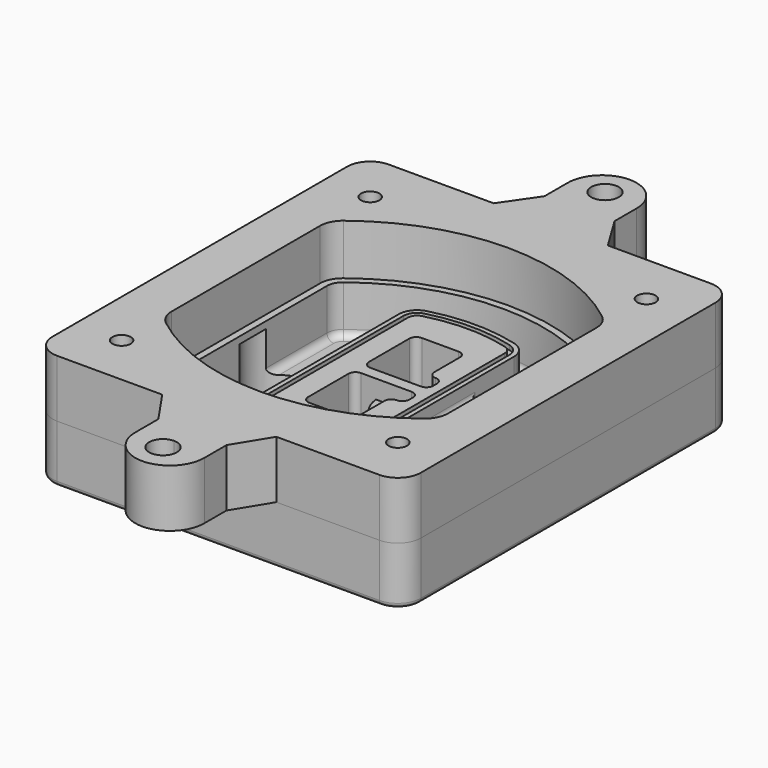
from build123d import *

# Parameters (mm, degrees)
F0_R      = 4
F1_DEPTH  = 25
F2_DEPTH  = 3
F3_DEPTH  = 18
F5_DEPTH  = 21
F6_DEPTH  = 2
F8_DEPTH  = 20
F9_DEPTH  = 16
F10_DEPTH = 25
F7_R      = 6
F7_R_2    = 4
F11_DEPTH = 6
F13_DEPTH = 9
F14_R     = 3
F15_R     = 2
F16_R     = 4
F17_DEPTH = 25


with BuildPart() as f1:
    # F0 (on Top) → F1 (new body)
    with BuildSketch(Plane.XY):
        with BuildLine():
            ThreePointArc((-80, -80), (-77.0710678119, -87.0710678119), (-70, -90))
            Line((-70, -90), (70, -90))
            ThreePointArc((70, -90), (77.0710678119, -87.0710678119), (80, -80))
            Line((80, -80), (80, 80))
            ThreePointArc((80, 80), (77.0710678119, 87.0710678119), (70, 90))
            Line((70, 90), (-70, 90))
            ThreePointArc((-70, 90), (-77.0710678119, 87.0710678119), (-80, 80))
            Line((-80, 80), (-80, -80))
        make_face()
        with Locations((-60, -67.5)):
            Circle(F0_R, mode=Mode.SUBTRACT)
        with Locations((60, -67.5)):
            Circle(F0_R, mode=Mode.SUBTRACT)
        with Locations((-60, 67.5)):
            Circle(F0_R, mode=Mode.SUBTRACT)
        with BuildLine():
            ThreePointArc((-64, 40.2934422872), (-62.5820384798, 46.4328484224), (-58.6153846154, 51.3286200352))
            ThreePointArc((-58.6153846154, 51.3286200352), (0, 71.5), (58.6153846154, 51.3286200352))
            ThreePointArc((58.6153846154, 51.3286200352), (62.5820384798, 46.4328484224), (64, 40.2934422872))
            Line((64, 40.2934422872), (64, -40.2934422872))
            ThreePointArc((64, -40.2934422872), (62.5820384798, -46.4328484224), (58.6153846154, -51.3286200352))
            ThreePointArc((58.6153846154, -51.3286200352), (0, -71.5), (-58.6153846154, -51.3286200352))
            ThreePointArc((-58.6153846154, -51.3286200352), (-62.5820384798, -46.4328484224), (-64, -40.2934422872))
            Line((-64, -40.2934422872), (-64, 40.2934422872))
        make_face(mode=Mode.SUBTRACT)
        with Locations((60, 67.5)):
            Circle(F0_R, mode=Mode.SUBTRACT)
        with BuildLine():
            ThreePointArc((58.6153846154, 51.3286200352), (0, 71.5), (-58.6153846154, 51.3286200352))
            ThreePointArc((-58.6153846154, 51.3286200352), (-62.5820384798, 46.4328484224), (-64, 40.2934422872))
            Line((-64, 40.2934422872), (-64, -40.2934422872))
            ThreePointArc((-64, -40.2934422872), (-62.5820384798, -46.4328484224), (-58.6153846154, -51.3286200352))
            ThreePointArc((-58.6153846154, -51.3286200352), (0, -71.5), (58.6153846154, -51.3286200352))
            ThreePointArc((58.6153846154, -51.3286200352), (62.5820384798, -46.4328484224), (64, -40.2934422872))
            Line((64, -40.2934422872), (64, 40.2934422872))
            ThreePointArc((64, 40.2934422872), (62.5820384798, 46.4328484224), (58.6153846154, 51.3286200352))
        make_face()
        with BuildLine():
            Line((-60, -40.2934422872), (-60, 40.2934422872))
            ThreePointArc((-60, 40.2934422872), (-58.9871703427, 44.6787323838), (-56.1538461538, 48.1757121072))
            ThreePointArc((-56.1538461538, 48.1757121072), (0, 67.5), (56.1538461538, 48.1757121072))
            ThreePointArc((56.1538461538, 48.1757121072), (58.9871703427, 44.6787323838), (60, 40.2934422872))
            Line((60, 40.2934422872), (60, -40.2934422872))
            ThreePointArc((60, -40.2934422872), (58.9871703427, -44.6787323838), (56.1538461538, -48.1757121072))
            ThreePointArc((56.1538461538, -48.1757121072), (0, -67.5), (-56.1538461538, -48.1757121072))
            ThreePointArc((-56.1538461538, -48.1757121072), (-58.9871703427, -44.6787323838), (-60, -40.2934422872))
        make_face(mode=Mode.SUBTRACT)
        with BuildLine():
            ThreePointArc((-56.1538461538, 48.1757121072), (-58.9871703427, 44.6787323838), (-60, 40.2934422872))
            Line((-60, 40.2934422872), (-60, -40.2934422872))
            ThreePointArc((-60, -40.2934422872), (-58.9871703427, -44.6787323838), (-56.1538461538, -48.1757121072))
            ThreePointArc((-56.1538461538, -48.1757121072), (0, -67.5), (56.1538461538, -48.1757121072))
            ThreePointArc((56.1538461538, -48.1757121072), (58.9871703427, -44.6787323838), (60, -40.2934422872))
            Line((60, -40.2934422872), (60, 40.2934422872))
            ThreePointArc((60, 40.2934422872), (58.9871703427, 44.6787323838), (56.1538461538, 48.1757121072))
            ThreePointArc((56.1538461538, 48.1757121072), (0, 67.5), (-56.1538461538, 48.1757121072))
        make_face()
        with BuildLine():
            ThreePointArc((54.3076923077, 45.8110311612), (56.2910192399, 43.3631453548), (57, 40.2934422872))
            Line((57, 40.2934422872), (57, -40.2934422872))
            ThreePointArc((57, -40.2934422872), (56.2910192399, -43.3631453548), (54.3076923077, -45.8110311612))
            ThreePointArc((54.3076923077, -45.8110311612), (0, -64.5), (-54.3076923077, -45.8110311612))
            ThreePointArc((-54.3076923077, -45.8110311612), (-56.2910192399, -43.3631453548), (-57, -40.2934422872))
            Line((-57, -40.2934422872), (-57, 40.2934422872))
            ThreePointArc((-57, 40.2934422872), (-56.2910192399, 43.3631453548), (-54.3076923077, 45.8110311612))
            ThreePointArc((-54.3076923077, 45.8110311612), (0, 64.5), (54.3076923077, 45.8110311612))
        make_face(mode=Mode.SUBTRACT)
        with BuildLine():
            Line((57, -40.2934422872), (57, 40.2934422872))
            ThreePointArc((57, 40.2934422872), (56.2910192399, 43.3631453548), (54.3076923077, 45.8110311612))
            ThreePointArc((54.3076923077, 45.8110311612), (0, 64.5), (-54.3076923077, 45.8110311612))
            ThreePointArc((-54.3076923077, 45.8110311612), (-56.2910192399, 43.3631453548), (-57, 40.2934422872))
            Line((-57, 40.2934422872), (-57, -40.2934422872))
            ThreePointArc((-57, -40.2934422872), (-56.2910192399, -43.3631453548), (-54.3076923077, -45.8110311612))
            ThreePointArc((-54.3076923077, -45.8110311612), (0, -64.5), (54.3076923077, -45.8110311612))
            ThreePointArc((54.3076923077, -45.8110311612), (56.2910192399, -43.3631453548), (57, -40.2934422872))
        make_face()
    extrude(amount=-F1_DEPTH)

    # F0 (on Top) → F2 (join)
    with BuildSketch(Plane.XY):
        with BuildLine():
            ThreePointArc((-56.1538461538, 48.1757121072), (-58.9871703427, 44.6787323838), (-60, 40.2934422872))
            Line((-60, 40.2934422872), (-60, -40.2934422872))
            ThreePointArc((-60, -40.2934422872), (-58.9871703427, -44.6787323838), (-56.1538461538, -48.1757121072))
            ThreePointArc((-56.1538461538, -48.1757121072), (0, -67.5), (56.1538461538, -48.1757121072))
            ThreePointArc((56.1538461538, -48.1757121072), (58.9871703427, -44.6787323838), (60, -40.2934422872))
            Line((60, -40.2934422872), (60, 40.2934422872))
            ThreePointArc((60, 40.2934422872), (58.9871703427, 44.6787323838), (56.1538461538, 48.1757121072))
            ThreePointArc((56.1538461538, 48.1757121072), (0, 67.5), (-56.1538461538, 48.1757121072))
        make_face()
        with BuildLine():
            ThreePointArc((54.3076923077, 45.8110311612), (56.2910192399, 43.3631453548), (57, 40.2934422872))
            Line((57, 40.2934422872), (57, -40.2934422872))
            ThreePointArc((57, -40.2934422872), (56.2910192399, -43.3631453548), (54.3076923077, -45.8110311612))
            ThreePointArc((54.3076923077, -45.8110311612), (0, -64.5), (-54.3076923077, -45.8110311612))
            ThreePointArc((-54.3076923077, -45.8110311612), (-56.2910192399, -43.3631453548), (-57, -40.2934422872))
            Line((-57, -40.2934422872), (-57, 40.2934422872))
            ThreePointArc((-57, 40.2934422872), (-56.2910192399, 43.3631453548), (-54.3076923077, 45.8110311612))
            ThreePointArc((-54.3076923077, 45.8110311612), (0, 64.5), (54.3076923077, 45.8110311612))
        make_face(mode=Mode.SUBTRACT)
    extrude(amount=F2_DEPTH)

    # F0 (on Top) → F3 (cut)
    with BuildSketch(Plane.XY):
        with BuildLine():
            Line((57, -40.2934422872), (57, 40.2934422872))
            ThreePointArc((57, 40.2934422872), (56.2910192399, 43.3631453548), (54.3076923077, 45.8110311612))
            ThreePointArc((54.3076923077, 45.8110311612), (0, 64.5), (-54.3076923077, 45.8110311612))
            ThreePointArc((-54.3076923077, 45.8110311612), (-56.2910192399, 43.3631453548), (-57, 40.2934422872))
            Line((-57, 40.2934422872), (-57, -40.2934422872))
            ThreePointArc((-57, -40.2934422872), (-56.2910192399, -43.3631453548), (-54.3076923077, -45.8110311612))
            ThreePointArc((-54.3076923077, -45.8110311612), (0, -64.5), (54.3076923077, -45.8110311612))
            ThreePointArc((54.3076923077, -45.8110311612), (56.2910192399, -43.3631453548), (57, -40.2934422872))
        make_face()
    extrude(amount=-F3_DEPTH, mode=Mode.SUBTRACT)

    # F4 (on face) → F5 (join, through all)
    with BuildSketch(Plane.XY.offset(3)):
        with BuildLine():
            ThreePointArc((-25, -39.2465276821), (-23.3511545998, -44.1109737193), (-19.0842911877, -46.9702398883))
            ThreePointArc((-19.0842911877, -46.9702398883), (0, -49.5), (19.0842911877, -46.9702398883))
            ThreePointArc((19.0842911877, -46.9702398883), (23.3511545998, -44.1109737193), (25, -39.2465276821))
            Line((25, -39.2465276821), (25, 39.2465276821))
            ThreePointArc((25, 39.2465276821), (23.3511545998, 44.1109737193), (19.0842911877, 46.9702398883))
            ThreePointArc((19.0842911877, 46.9702398883), (0, 49.5), (-19.0842911877, 46.9702398883))
            ThreePointArc((-19.0842911877, 46.9702398883), (-23.3511545998, 44.1109737193), (-25, 39.2465276821))
            Line((-25, 39.2465276821), (-25, -39.2465276821))
        make_face()
        with BuildLine():
            ThreePointArc((18.5632183908, 45.0393118368), (21.7633659499, 42.89486221), (23, 39.2465276821))
            Line((23, 39.2465276821), (23, -39.2465276821))
            ThreePointArc((23, -39.2465276821), (21.7633659499, -42.89486221), (18.5632183908, -45.0393118368))
            ThreePointArc((18.5632183908, -45.0393118368), (0, -47.5), (-18.5632183908, -45.0393118368))
            ThreePointArc((-18.5632183908, -45.0393118368), (-21.7633659499, -42.89486221), (-23, -39.2465276821))
            Line((-23, -39.2465276821), (-23, 39.2465276821))
            ThreePointArc((-23, 39.2465276821), (-21.7633659499, 42.89486221), (-18.5632183908, 45.0393118368))
            ThreePointArc((-18.5632183908, 45.0393118368), (0, 47.5), (18.5632183908, 45.0393118368))
        make_face(mode=Mode.SUBTRACT)
        with BuildLine():
            Line((23, -39.2465276821), (23, 39.2465276821))
            ThreePointArc((23, 39.2465276821), (21.7633659499, 42.89486221), (18.5632183908, 45.0393118368))
            ThreePointArc((18.5632183908, 45.0393118368), (0, 47.5), (-18.5632183908, 45.0393118368))
            ThreePointArc((-18.5632183908, 45.0393118368), (-21.7633659499, 42.89486221), (-23, 39.2465276821))
            Line((-23, 39.2465276821), (-23, -39.2465276821))
            ThreePointArc((-23, -39.2465276821), (-21.7633659499, -42.89486221), (-18.5632183908, -45.0393118368))
            ThreePointArc((-18.5632183908, -45.0393118368), (0, -47.5), (18.5632183908, -45.0393118368))
            ThreePointArc((18.5632183908, -45.0393118368), (21.7633659499, -42.89486221), (23, -39.2465276821))
        make_face()
        with BuildLine():
            ThreePointArc((18.0421455939, 43.1083837852), (20.1755772999, 41.6787507007), (21, 39.2465276821))
            Line((21, 39.2465276821), (21, -39.2465276821))
            ThreePointArc((21, -39.2465276821), (20.1755772999, -41.6787507007), (18.0421455939, -43.1083837852))
            ThreePointArc((18.0421455939, -43.1083837852), (0, -45.5), (-18.0421455939, -43.1083837852))
            ThreePointArc((-18.0421455939, -43.1083837852), (-20.1755772999, -41.6787507007), (-21, -39.2465276821))
            Line((-21, -39.2465276821), (-21, 39.2465276821))
            ThreePointArc((-21, 39.2465276821), (-20.1755772999, 41.6787507007), (-18.0421455939, 43.1083837852))
            ThreePointArc((-18.0421455939, 43.1083837852), (0, 45.5), (18.0421455939, 43.1083837852))
        make_face(mode=Mode.SUBTRACT)
        with BuildLine():
            Line((21, -39.2465276821), (21, 39.2465276821))
            ThreePointArc((21, 39.2465276821), (20.1755772999, 41.6787507007), (18.0421455939, 43.1083837852))
            ThreePointArc((18.0421455939, 43.1083837852), (0, 45.5), (-18.0421455939, 43.1083837852))
            ThreePointArc((-18.0421455939, 43.1083837852), (-20.1755772999, 41.6787507007), (-21, 39.2465276821))
            Line((-21, 39.2465276821), (-21, -39.2465276821))
            ThreePointArc((-21, -39.2465276821), (-20.1755772999, -41.6787507007), (-18.0421455939, -43.1083837852))
            ThreePointArc((-18.0421455939, -43.1083837852), (0, -45.5), (18.0421455939, -43.1083837852))
            ThreePointArc((18.0421455939, -43.1083837852), (20.1755772999, -41.6787507007), (21, -39.2465276821))
        make_face()
        with BuildLine():
            Line((-8, -2.5), (14, -2.5))
            ThreePointArc((14, -2.5), (16.1213203436, -3.3786796564), (17, -5.5))
            Line((17, -5.5), (17, -7.5))
            ThreePointArc((17, -7.5), (16.1213203436, -9.6213203436), (14, -10.5))
            ThreePointArc((14, -10.5), (11.8786796564, -11.3786796564), (11, -13.5))
            Line((11, -13.5), (11, -27.5))
            ThreePointArc((11, -27.5), (10.1213203436, -29.6213203436), (8, -30.5))
            Line((8, -30.5), (-8, -30.5))
            ThreePointArc((-8, -30.5), (-10.1213203436, -29.6213203436), (-11, -27.5))
            Line((-11, -27.5), (-11, -5.5))
            ThreePointArc((-11, -5.5), (-10.1213203436, -3.3786796564), (-8, -2.5))
        make_face(mode=Mode.SUBTRACT)
        with BuildLine():
            ThreePointArc((-8, 2.5), (-10.1213203436, 3.3786796564), (-11, 5.5))
            Line((-11, 5.5), (-11, 27.5))
            ThreePointArc((-11, 27.5), (-10.1213203436, 29.6213203436), (-8, 30.5))
            Line((-8, 30.5), (8, 30.5))
            ThreePointArc((8, 30.5), (10.1213203436, 29.6213203436), (11, 27.5))
            Line((11, 27.5), (11, 13.5))
            ThreePointArc((11, 13.5), (11.8786796564, 11.3786796564), (14, 10.5))
            ThreePointArc((14, 10.5), (16.1213203436, 9.6213203436), (17, 7.5))
            Line((17, 7.5), (17, 5.5))
            ThreePointArc((17, 5.5), (16.1213203436, 3.3786796564), (14, 2.5))
            Line((14, 2.5), (-8, 2.5))
        make_face(mode=Mode.SUBTRACT)
    extrude(amount=-F5_DEPTH)

    # F4 (on face) → F6 (cut)
    with BuildSketch(Plane.XY.offset(3)):
        with BuildLine():
            Line((23, -39.2465276821), (23, 39.2465276821))
            ThreePointArc((23, 39.2465276821), (21.7633659499, 42.89486221), (18.5632183908, 45.0393118368))
            ThreePointArc((18.5632183908, 45.0393118368), (0, 47.5), (-18.5632183908, 45.0393118368))
            ThreePointArc((-18.5632183908, 45.0393118368), (-21.7633659499, 42.89486221), (-23, 39.2465276821))
            Line((-23, 39.2465276821), (-23, -39.2465276821))
            ThreePointArc((-23, -39.2465276821), (-21.7633659499, -42.89486221), (-18.5632183908, -45.0393118368))
            ThreePointArc((-18.5632183908, -45.0393118368), (0, -47.5), (18.5632183908, -45.0393118368))
            ThreePointArc((18.5632183908, -45.0393118368), (21.7633659499, -42.89486221), (23, -39.2465276821))
        make_face()
        with BuildLine():
            ThreePointArc((18.0421455939, 43.1083837852), (20.1755772999, 41.6787507007), (21, 39.2465276821))
            Line((21, 39.2465276821), (21, -39.2465276821))
            ThreePointArc((21, -39.2465276821), (20.1755772999, -41.6787507007), (18.0421455939, -43.1083837852))
            ThreePointArc((18.0421455939, -43.1083837852), (0, -45.5), (-18.0421455939, -43.1083837852))
            ThreePointArc((-18.0421455939, -43.1083837852), (-20.1755772999, -41.6787507007), (-21, -39.2465276821))
            Line((-21, -39.2465276821), (-21, 39.2465276821))
            ThreePointArc((-21, 39.2465276821), (-20.1755772999, 41.6787507007), (-18.0421455939, 43.1083837852))
            ThreePointArc((-18.0421455939, 43.1083837852), (0, 45.5), (18.0421455939, 43.1083837852))
        make_face(mode=Mode.SUBTRACT)
    extrude(amount=-F6_DEPTH, mode=Mode.SUBTRACT)

    # F7 (on face) → F8 (join)
    with BuildSketch(Plane(origin=(0, 0, -25), x_dir=(1, 0, 0), z_dir=(0, 0, -1))):
        with BuildLine():
            ThreePointArc((3.28842436, 0), (16.7567035675, 13.4682792075), (30.224982775, 0))
            Line((30.224982775, 0), (35.224982775, 0))
            ThreePointArc((35.224982775, 0), (16.7567035675, 18.4682792075), (-1.71157564, 0))
            Line((-1.71157564, 0), (3.28842436, 0))
        make_face()
        with BuildLine():
            Line((3.28842436, 0), (30.224982775, 0))
            ThreePointArc((30.224982775, 0), (16.7567035675, 13.4682792075), (3.28842436, 0))
        make_face()
        with BuildLine():
            ThreePointArc((3.28842436, 0), (16.7567035675, -13.4682792075), (30.224982775, 0))
            Line((30.224982775, 0), (3.28842436, 0))
        make_face()
        with BuildLine():
            Line((35.224982775, 0), (30.224982775, 0))
            ThreePointArc((30.224982775, 0), (16.7567035675, -13.4682792075), (3.28842436, 0))
            Line((3.28842436, 0), (-1.71157564, 0))
            ThreePointArc((-1.71157564, 0), (16.7567035675, -18.4682792075), (35.224982775, 0))
        make_face()
    extrude(amount=-F8_DEPTH)

    # F7 (on face) → F9 (cut)
    with BuildSketch(Plane(origin=(0, 0, -25), x_dir=(1, 0, 0), z_dir=(0, 0, -1))):
        with BuildLine():
            Line((3.28842436, 0), (30.224982775, 0))
            ThreePointArc((30.224982775, 0), (16.7567035675, 13.4682792075), (3.28842436, 0))
        make_face()
        with BuildLine():
            ThreePointArc((3.28842436, 0), (16.7567035675, -13.4682792075), (30.224982775, 0))
            Line((30.224982775, 0), (3.28842436, 0))
        make_face()
    extrude(amount=-F9_DEPTH, mode=Mode.SUBTRACT)

    # F7 (on face) → F10 (cut)
    with BuildSketch(Plane(origin=(0, 0, -25), x_dir=(1, 0, 0), z_dir=(0, 0, -1))):
        with BuildLine():
            Line((-59.0318229325, 0), (-32.0952645175, 0))
            ThreePointArc((-32.0952645175, 0), (-45.563543725, 13.4682792075), (-59.0318229325, 0))
        make_face()
        with BuildLine():
            ThreePointArc((-59.0318229325, 0), (-45.563543725, -13.4682792075), (-32.0952645175, 0))
            Line((-32.0952645175, 0), (-59.0318229325, 0))
        make_face()
    extrude(amount=-F10_DEPTH, mode=Mode.SUBTRACT)

    # F7 (on face) → F11 (cut)
    with BuildSketch(Plane(origin=(0, 0, -25), x_dir=(1, 0, 0), z_dir=(0, 0, -1))):
        with Locations((60, -67.5)):
            Circle(F7_R)
        with Locations((60, -67.5)):
            Circle(F7_R_2, mode=Mode.SUBTRACT)
        with Locations((60, -67.5)):
            Circle(F7_R)
        with Locations((60, -67.5)):
            Circle(F7_R_2, mode=Mode.SUBTRACT)
        with Locations((-60, -67.5)):
            Circle(F7_R)
        with Locations((-60, -67.5)):
            Circle(F7_R_2, mode=Mode.SUBTRACT)
        with Locations((-60, -67.5)):
            Circle(F7_R)
        with Locations((-60, -67.5)):
            Circle(F7_R_2, mode=Mode.SUBTRACT)
        with Locations((-60, 67.5)):
            Circle(F7_R)
        with Locations((-60, 67.5)):
            Circle(F7_R_2, mode=Mode.SUBTRACT)
        with Locations((-60, 67.5)):
            Circle(F7_R)
        with Locations((-60, 67.5)):
            Circle(F7_R_2, mode=Mode.SUBTRACT)
        with Locations((60, 67.5)):
            Circle(F7_R)
        with Locations((60, 67.5)):
            Circle(F7_R_2, mode=Mode.SUBTRACT)
        with Locations((60, 67.5)):
            Circle(F7_R)
        with Locations((60, 67.5)):
            Circle(F7_R_2, mode=Mode.SUBTRACT)
    extrude(amount=-F11_DEPTH, mode=Mode.SUBTRACT)

    # F12 (on face) → F13 (cut, through all)
    with BuildSketch(Plane(origin=(0, 0, -9), x_dir=(1, 0, 0), z_dir=(0, 0, -1))):
        with BuildLine():
            Line((11, 13.5), (11, 17.5481537753))
            ThreePointArc((11, 17.5481537753), (2.5696536419, 11.8239143813), (-1.5415842455, 2.5))
            Line((-1.5415842455, 2.5), (3.5224848595, 2.5))
            ThreePointArc((3.5224848595, 2.5), (6.1857188154, 8.3455872281), (11.2536447004, 12.2927168648))
            ThreePointArc((11.2536447004, 12.2927168648), (11.0640958889, 12.8831798879), (11, 13.5))
        make_face()
        with BuildLine():
            ThreePointArc((11.2536447004, -12.2927168648), (6.1857188154, -8.3455872281), (3.5224848595, -2.5))
            Line((3.5224848595, -2.5), (-1.5415842455, -2.5))
            ThreePointArc((-1.5415842455, -2.5), (2.5696536419, -11.8239143813), (11, -17.5481537753))
            Line((11, -17.5481537753), (11, -13.5))
            ThreePointArc((11, -13.5), (11.0640958889, -12.8831798879), (11.2536447004, -12.2927168648))
        make_face()
        with BuildLine():
            ThreePointArc((11.2536447004, 12.2927168648), (6.1857188154, 8.3455872281), (3.5224848595, 2.5))
            Line((3.5224848595, 2.5), (14, 2.5))
            ThreePointArc((14, 2.5), (16.1213203436, 3.3786796564), (17, 5.5))
            Line((17, 5.5), (17, 7.5))
            ThreePointArc((17, 7.5), (16.1213203436, 9.6213203436), (14, 10.5))
            ThreePointArc((14, 10.5), (12.3601599782, 10.9878446101), (11.2536447004, 12.2927168648))
        make_face()
        with BuildLine():
            Line((14, -2.5), (3.5224848595, -2.5))
            ThreePointArc((3.5224848595, -2.5), (6.1857188154, -8.3455872281), (11.2536447004, -12.2927168648))
            ThreePointArc((11.2536447004, -12.2927168648), (12.3601599782, -10.9878446101), (14, -10.5))
            ThreePointArc((14, -10.5), (16.1213203436, -9.6213203436), (17, -7.5))
            Line((17, -7.5), (17, -5.5))
            ThreePointArc((17, -5.5), (16.1213203436, -3.3786796564), (14, -2.5))
        make_face()
    extrude(amount=F13_DEPTH, mode=Mode.SUBTRACT)

    # F14
    f14_edges = [f1.edges().sort_by_distance(p)[0] for p in [
        (-57, -23.703476, -18),
        (-57, 23.703476, -18),
        (25, 0, -5),
        (25, 16.526506, -11.5),
        (25, -16.526506, -11.5),
        (25, -27.886517, -18),
        (35.224983, 0, -18),
    ]]
    fillet(f14_edges, radius=F14_R)

    # F15
    f15_edges = [f1.edges().sort_by_distance(p)[0] for p in [
        (0, -90, -25),
    ]]
    fillet(f15_edges, radius=F15_R)


with BuildPart() as f17:
    # F16 (on face) → F17 (new body)
    with BuildSketch(Plane.XY):
        with BuildLine():
            Line((-14.1400055971, 104.8323949891), (-24.3380475114, 90))
            Line((-24.3380475114, 90), (0, 90))
            Line((0, 90), (25.2272208562, 90))
            Line((25.2272208562, 90), (15.850541981, 105.3648264966))
            Line((15.850541981, 105.3648264966), (15.850541981, 117.3648264966))
            ThreePointArc((15.850541981, 117.3648264966), (0.5842842776, 132.3624632049), (-14.1400055971, 116.8323949891))
            Line((-14.1400055971, 116.8323949891), (-14.1400055971, 104.8323949891))
        make_face()
        with BuildLine():
            ThreePointArc((6, 120), (4.2426406871, 115.7573593129), (0, 114))
            ThreePointArc((0, 114), (-4.2426406871, 124.2426406871), (6, 120))
        make_face(mode=Mode.SUBTRACT)
        with BuildLine():
            Line((25.2272208562, -90), (0, -90))
            Line((0, -90), (-24.3380475114, -90))
            Line((-24.3380475114, -90), (-14.1400055971, -104.8323949891))
            Line((-14.1400055971, -104.8323949891), (-14.1400055971, -116.8323949891))
            ThreePointArc((-14.1400055971, -116.8323949891), (0.5842842776, -132.3624632049), (15.850541981, -117.3648264966))
            Line((15.850541981, -117.3648264966), (15.850541981, -105.3648264966))
            Line((15.850541981, -105.3648264966), (25.2272208562, -90))
        make_face()
        with BuildLine():
            ThreePointArc((6, -120), (-4.2426406871, -124.2426406871), (0, -114))
            ThreePointArc((0, -114), (4.2426406871, -115.7573593129), (6, -120))
        make_face(mode=Mode.SUBTRACT)
        with BuildLine():
            Line((-24.3380475114, -90), (0, -90))
            Line((0, -90), (25.2272208562, -90))
            Line((25.2272208562, -90), (70, -90))
            ThreePointArc((70, -90), (77.0710678119, -87.0710678119), (80, -80))
            Line((80, -80), (80, 80))
            ThreePointArc((80, 80), (77.0710678119, 87.0710678119), (70, 90))
            Line((70, 90), (25.2272208562, 90))
            Line((25.2272208562, 90), (0, 90))
            Line((0, 90), (-24.3380475114, 90))
            Line((-24.3380475114, 90), (-70, 90))
            ThreePointArc((-70, 90), (-77.0710678119, 87.0710678119), (-80, 80))
            Line((-80, 80), (-80, -80))
            ThreePointArc((-80, -80), (-77.0710678119, -87.0710678119), (-70, -90))
            Line((-70, -90), (-24.3380475114, -90))
        make_face()
        with Locations((-60, -67.5)):
            Circle(F16_R, mode=Mode.SUBTRACT)
        with Locations((60, -67.5)):
            Circle(F16_R, mode=Mode.SUBTRACT)
        with Locations((-60, 67.5)):
            Circle(F16_R, mode=Mode.SUBTRACT)
        with BuildLine():
            ThreePointArc((-60, 40.2934422872), (-58.9871703427, 44.6787323838), (-56.1538461538, 48.1757121072))
            ThreePointArc((-56.1538461538, 48.1757121072), (0, 67.5), (56.1538461538, 48.1757121072))
            ThreePointArc((56.1538461538, 48.1757121072), (58.9871703427, 44.6787323838), (60, 40.2934422872))
            Line((60, 40.2934422872), (60, -40.2934422872))
            ThreePointArc((60, -40.2934422872), (58.9871703427, -44.6787323838), (56.1538461538, -48.1757121072))
            ThreePointArc((56.1538461538, -48.1757121072), (0, -67.5), (-56.1538461538, -48.1757121072))
            ThreePointArc((-56.1538461538, -48.1757121072), (-58.9871703427, -44.6787323838), (-60, -40.2934422872))
            Line((-60, -40.2934422872), (-60, 40.2934422872))
        make_face(mode=Mode.SUBTRACT)
        with Locations((60, 67.5)):
            Circle(F16_R, mode=Mode.SUBTRACT)
    extrude(amount=F17_DEPTH)


solid = Compound([f1.part, f17.part])
